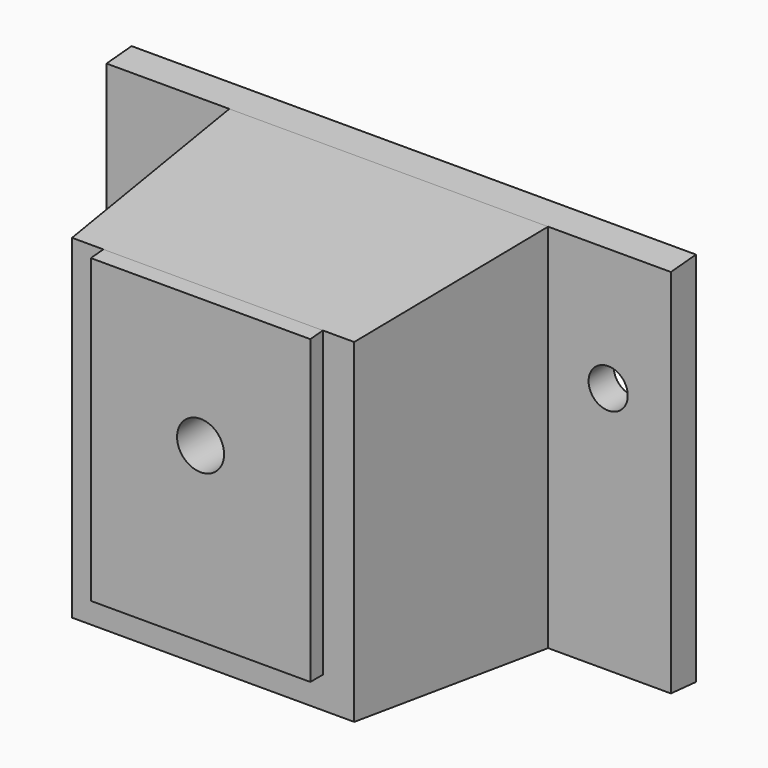
from build123d import *

# Parameters (mm, degrees)
F0_W      = 65.620646
F0_H      = 76.2
F1_DEPTH  = 50.8
F1_TAPER  = 4.765
F2_T      = -6.35
F3_W      = 44.4515540981
F3_H      = 61.380908036
F4_DEPTH  = 3.175
F5_W      = 52.8765998903
F5_H      = 63.4559538903
F6_DEPTH  = 6.35
F7_R      = 127
F8_DEPTH  = 4.4846550372
F9_R      = 114.3
F10_DEPTH = 4.4846550455
F11_R     = 3.96875
F12_DEPTH = 53.9760001
F13_R     = 4.7625
F14_DEPTH = 53.9760001


with BuildPart() as f1:
    # F0 (on Front) → F1 (new body)
    with BuildSketch(Plane.XZ):
        Rectangle(F0_W, F0_H)
    extrude(amount=F1_DEPTH, taper=F1_TAPER)

    # F2
    f2_openings = [f1.faces().sort_by_distance(p)[0] for p in [
        (0, 0, 0),
    ]]
    offset(amount=F2_T, openings=f2_openings)

    # F3 (on face) → F4 (join)
    with BuildSketch(Plane.XZ.offset(50.8)):
        with Locations((0, 3.174999969)):
            Rectangle(F3_W, F3_H)
    extrude(amount=F4_DEPTH)

    # F5 (on Front) → F6 (join)
    with BuildSketch(Plane.XZ):
        Polygon((-32.810323, -38.1), (32.810323, -38.1), (57.15, -38.1), (57.15, 38.1), (32.810323, 38.1), (-32.810323, 38.1), (-57.15, 38.1), (-57.15, -38.1), align=None)
        Rectangle(F5_W, F5_H, mode=Mode.SUBTRACT)
    extrude(amount=F6_DEPTH)

    # F7 (on face) → F8 (cut, through all)
    with BuildSketch(Plane(origin=(0, -3.1539942218, 37.8370918571), x_dir=(1, 0, 0), z_dir=(0, -0.0830691049, 0.9965437892))):
        with Locations((28.5757769869, -47.8112515417)):
            Circle(F7_R)
    extrude(amount=F8_DEPTH, mode=Mode.SUBTRACT)

    # F9 (on face) → F10 (cut, through all)
    with BuildSketch(Plane(origin=(0, -3.1539942218, -37.8370918571), x_dir=(1, 0, 0), z_dir=(0, -0.0830691049, -0.9965437892))):
        with Locations((-28.5757769869, 47.8112515417)):
            Circle(F9_R)
    extrude(amount=F10_DEPTH, mode=Mode.SUBTRACT)

    # F11 (on face) → F12 (cut, through all)
    with BuildSketch(Plane(origin=(0, 0, 0), x_dir=(-1, 0, 0), z_dir=(0, 1, 0))):
        with Locations((-44.45, 12.7)):
            Circle(F11_R)
        with Locations((44.45, 12.7)):
            Circle(F11_R)
    extrude(amount=-F12_DEPTH, mode=Mode.SUBTRACT)

    # F13 (on face) → F14 (cut, through all)
    with BuildSketch(Plane.XZ.offset(53.975)):
        with Locations((0, 7.4095460131)):
            Circle(F13_R)
    extrude(amount=-F14_DEPTH, mode=Mode.SUBTRACT)


solid = f1.part
